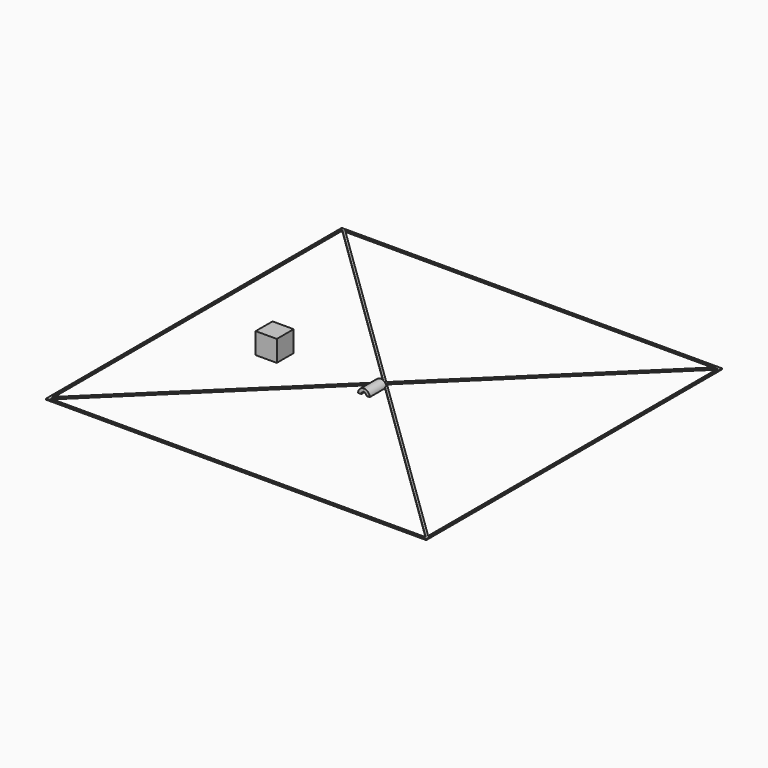
from build123d import *

# Parameters (mm, degrees)
F1_DEPTH = 5
F3_DEPTH = 5
F5_DEPTH = 5
F6_W     = 180
F6_H     = 175
F7_DEPTH = 0.5
F8_W     = 10
F8_H     = 10
F9_DEPTH = 10


with BuildPart() as f1:
    # F0 (on Front) → F1 (new body)
    with BuildSketch(Plane.XZ):
        with BuildLine():
            Line((1.2, 0), (2.75, 0))
            ThreePointArc((2.75, 0), (0, 2.75), (-2.75, 0))
            Line((-2.75, 0), (-1.2, 0))
            ThreePointArc((-1.2, 0), (0, 1.2), (1.2, 0))
        make_face()
    extrude(amount=F1_DEPTH)

    # F2 (on face) → F3 (join)
    with BuildSketch(Plane.XZ.offset(5)):
        with BuildLine():
            ThreePointArc((-1.2, 0), (0, 1.2), (1.2, 0))
            Line((1.2, 0), (2.75, 0))
            ThreePointArc((2.75, 0), (0, 2.75), (-2.75, 0))
            Line((-2.75, 0), (-1.2, 0))
        make_face()
    extrude(amount=F3_DEPTH)

    # F4 (on face) → F5 (cut)
    with BuildSketch(Plane.XZ.offset(10)):
        with BuildLine():
            ThreePointArc((0.24864, 1.173958), (0.24966, 1.186961), (0.25, 1.2))
            ThreePointArc((0.25, 1.2), (-0.013039, 1.44966), (-0.24864, 1.173958))
            ThreePointArc((-0.24864, 1.173958), (0, 1.2), (0.24864, 1.173958))
        make_face()
    extrude(amount=-F5_DEPTH, mode=Mode.SUBTRACT)


with BuildPart() as f7:
    # F6 (on Top) → F7 (new body)
    with BuildSketch(Plane.XY):
        with Locations((0.580216, 1.204267)):
            Rectangle(F6_W, F6_H)
        Polygon((89.580216, -85.295733), (-88.419784, -85.295733), (0.580216, 1.204267), align=None, mode=Mode.SUBTRACT)
        Polygon((-0.137182, 1.901514), (-88.419784, -83.90124), (-88.419784, 87.704267), align=None, mode=Mode.SUBTRACT)
        Polygon((0.580216, 2.59876), (-86.984988, 87.704267), (88.14542, 87.704267), align=None, mode=Mode.SUBTRACT)
        Polygon((89.580216, 87.704267), (89.580216, -83.90124), (1.297614, 1.901514), align=None, mode=Mode.SUBTRACT)
    extrude(amount=F7_DEPTH)


with BuildPart() as f9:
    # F8 (on Top) → F9 (new body)
    with BuildSketch(Plane.XY):
        with Locations((-46.230354, -5)):
            Rectangle(F8_W, F8_H)
    extrude(amount=F9_DEPTH)


solid = Compound([f1.part, f7.part, f9.part])
